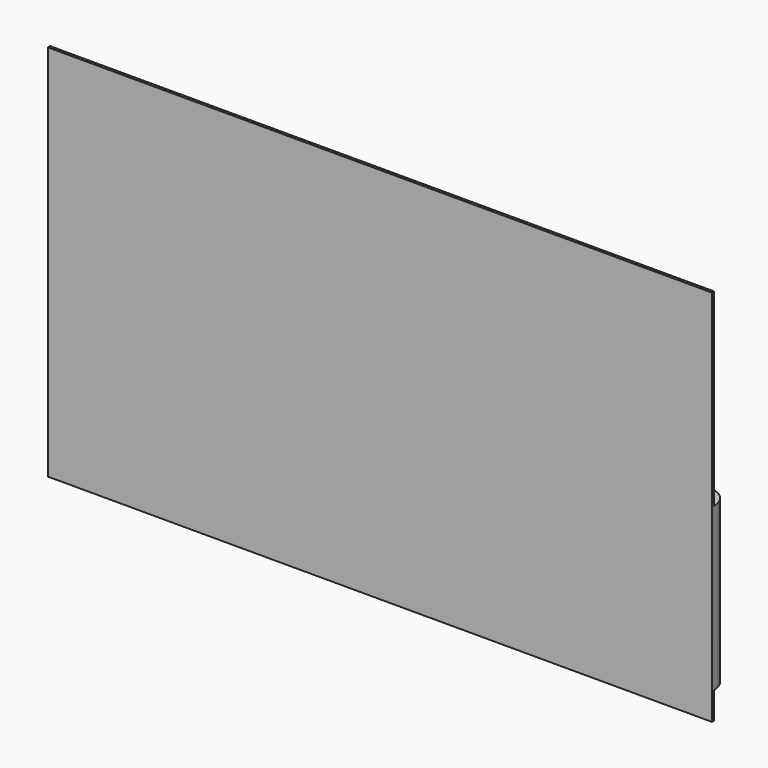
from build123d import *

# Parameters (mm, degrees)
F0_W     = 1230
F0_H     = 700
F1_DEPTH = 5
F2_W     = 1230
F2_H     = 300
F3_DEPTH = 40
F4_R     = 40
F5_W     = 20
F5_H     = 500
F6_DEPTH = 25
F7_W     = 570
F7_H     = 20
F8_DEPTH = 25


with BuildPart() as f1:
    # F0 (on Front) → F1 (new body)
    with BuildSketch(Plane.XZ):
        Rectangle(F0_W, F0_H)
    extrude(amount=F1_DEPTH)

    # F2 (on face) → F3 (join)
    with BuildSketch(Plane(origin=(0, 0, 0), x_dir=(-1, 0, 0), z_dir=(0, 1, 0))):
        with Locations((0, -150)):
            Rectangle(F2_W, F2_H)
    extrude(amount=F3_DEPTH)

    # F4
    f4_edges = [f1.edges().sort_by_distance(p)[0] for p in [
        (615, 40, -150),
        (-615, 40, -150),
    ]]
    fillet(f4_edges, radius=F4_R)

    # F5 (on face) → F6 (join)
    with BuildSketch(Plane(origin=(0, 40, 0), x_dir=(-1, 0, 0), z_dir=(0, 1, 0))):
        with Locations((-200, -67.909449)):
            Rectangle(F5_W, F5_H)
        with Locations((200, -67.909449)):
            Rectangle(F5_W, F5_H)
    extrude(amount=F6_DEPTH)

    # F7 (on face) → F8 (join)
    with BuildSketch(Plane(origin=(0, 65, 0), x_dir=(-1, 0, 0), z_dir=(0, 1, 0))):
        with Locations((0, 82.090551)):
            Rectangle(F7_W, F7_H)
        with Locations((0, -217.909449)):
            Rectangle(F7_W, F7_H)
    extrude(amount=F8_DEPTH)


solid = f1.part
